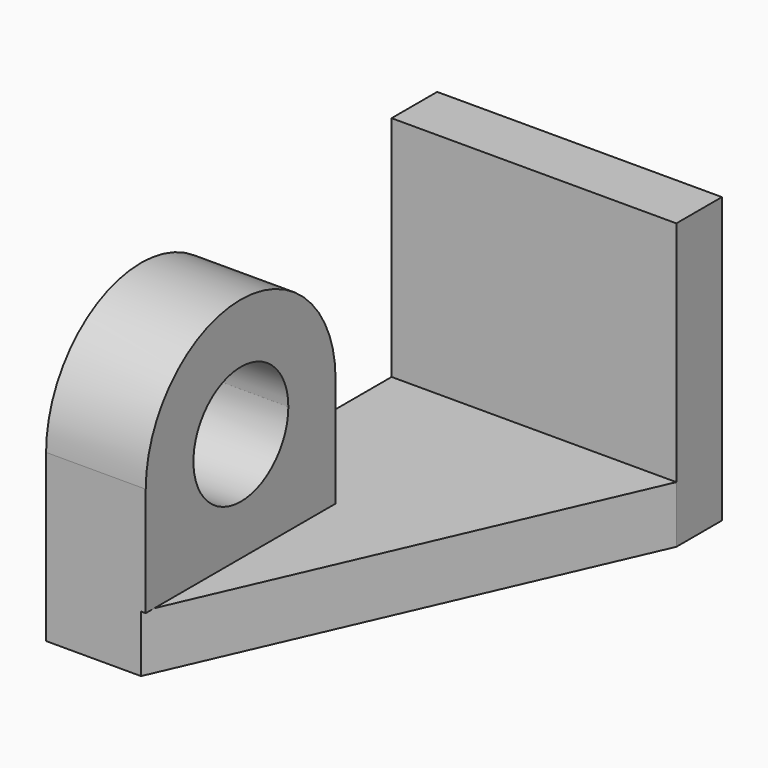
from build123d import *

# Parameters (mm, degrees)
F0_W      = 1524
F0_H      = 1524
F1_DEPTH  = 304.8
F2_W      = 2311.4
F2_H      = 304.8
F3_DEPTH  = 1524
F5_DEPTH  = 1008.38
F6_W      = 508
F6_H      = 1270
F7_DEPTH  = 1524
F8_DEPTH  = 25.4
F11_DEPTH = 1397
F12_DEPTH = 782.32


with BuildPart() as f1:
    # F0 (on Front) → F1 (new body)
    with BuildSketch(Plane.XZ):
        with Locations((-762, 762)):
            Rectangle(F0_W, F0_H)
        with Locations((-762, 762)):
            Rectangle(F0_W, F0_H)
    extrude(amount=F1_DEPTH)

    # F2 (on face) → F3 (join)
    with BuildSketch(Plane(origin=(-1524, 0, 0), x_dir=(0, -1, 0), z_dir=(-1, 0, 0))):
        with Locations((1460.5, 152.4)):
            Rectangle(F2_W, F2_H)
    extrude(amount=-F3_DEPTH)

    # F4 (on face) → F5 (cut)
    with BuildSketch(Plane.XY.offset(304.8)):
        Polygon((0, -304.8), (-1016, -2616.2), (0, -2616.2), align=None)
    extrude(amount=-F5_DEPTH, mode=Mode.SUBTRACT)

    # F6 (on face) → F7 (join)
    with BuildSketch(Plane.XY.offset(304.8)):
        with Locations((-1270, -1981.2)):
            Rectangle(F6_W, F6_H)
    extrude(amount=F7_DEPTH)

    # F8 (add): a face of the model
    f8_faces = [f1.faces().sort_by_distance(p)[0] for p in [
        (-1016, -1981.2, 1066.8),
    ]]
    extrude(f8_faces, amount=F8_DEPTH)

    # F10 (on face) → F11 (cut)
    with BuildSketch(Plane.YZ.offset(-990.6)):
        with BuildLine():
            Line((-1981.2, 889), (-1981.2, 1206.8317305865))
            ThreePointArc((-1981.2, 1206.8317305865), (-2203.9354336027, 664.45365533), (-1662.3045731484, 889))
            Line((-1662.3045731484, 889), (-1981.2, 889))
        make_face()
        with BuildLine():
            ThreePointArc((-1662.3045731484, 889), (-1662.3044407591, 889.1673989063), (-1662.3043966293, 889.3347978592))
            ThreePointArc((-1662.3043966293, 889.3347978592), (-1755.7919573209, 1114.3340801583), (-1981.2, 1206.8317305865))
            Line((-1981.2, 1206.8317305865), (-1981.2, 889))
            Line((-1981.2, 889), (-1662.3045731484, 889))
        make_face()
    extrude(amount=-F11_DEPTH, mode=Mode.SUBTRACT)

    # F9 (on face) → F12 (cut)
    with BuildSketch(Plane.YZ.offset(-990.6)):
        with BuildLine():
            ThreePointArc((-1981.2, 1524), (-1532.1871939465, 1338.0128060535), (-1346.2, 889))
            Line((-1346.2, 889), (-1346.2, 1828.8))
            Line((-1346.2, 1828.8), (-2616.2, 1828.8))
            Line((-2616.2, 1828.8), (-2616.2, 889))
            ThreePointArc((-2616.2, 889), (-2430.2128060535, 1338.0128060535), (-1981.2, 1524))
        make_face()
    extrude(amount=-F12_DEPTH, mode=Mode.SUBTRACT)


solid = f1.part
